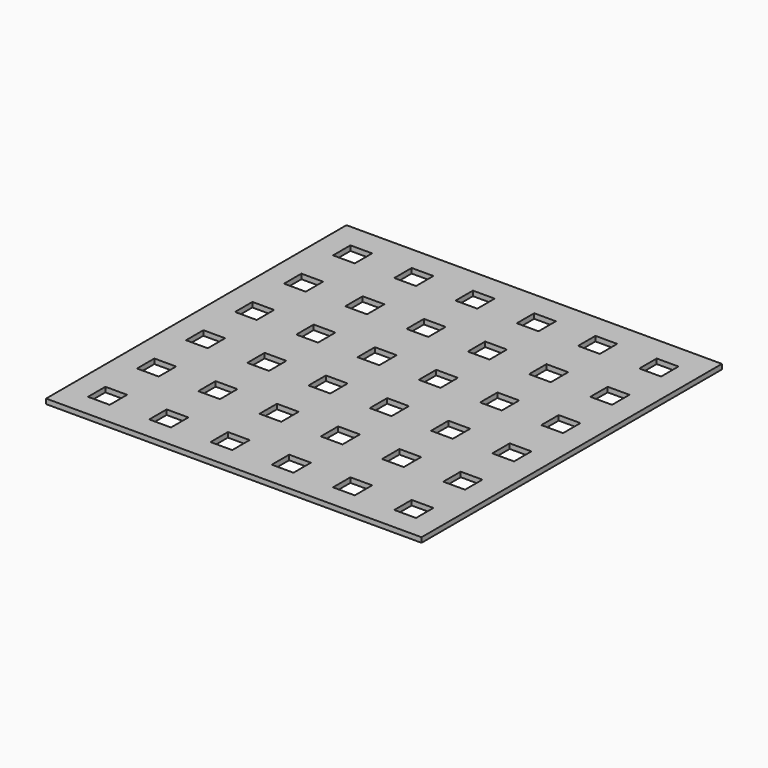
from build123d import *

# Parameters (mm, degrees)
F0_W     = 241.3
F0_H     = 241.3
F1_DEPTH = 1.5875
F2_W     = 13.97
F2_H     = 13.97
F3_DEPTH = 3.175


with BuildPart() as f1:
    # F0 (on Top) → F1 (new body, symmetric)
    with BuildSketch(Plane.XY):
        Rectangle(F0_W, F0_H)
    extrude(amount=F1_DEPTH, both=True)

    # F2 (on face) → F3 (cut, through all)
    with BuildSketch(Plane.XY.offset(1.5875)):
        with Locations((-98.425, 97.79)):
            Rectangle(F2_W, F2_H)
        with Locations((-98.425, 58.42)):
            Rectangle(F2_W, F2_H)
        with Locations((-98.425, 19.05)):
            Rectangle(F2_W, F2_H)
        with Locations((-98.425, -20.32)):
            Rectangle(F2_W, F2_H)
        with Locations((-98.425, -59.69)):
            Rectangle(F2_W, F2_H)
        with Locations((-98.425, -99.06)):
            Rectangle(F2_W, F2_H)
        with Locations((-59.055, 97.79)):
            Rectangle(F2_W, F2_H)
        with Locations((-59.055, 58.42)):
            Rectangle(F2_W, F2_H)
        with Locations((-59.055, 19.05)):
            Rectangle(F2_W, F2_H)
        with Locations((-59.055, -20.32)):
            Rectangle(F2_W, F2_H)
        with Locations((-59.055, -59.69)):
            Rectangle(F2_W, F2_H)
        with Locations((-59.055, -99.06)):
            Rectangle(F2_W, F2_H)
        with Locations((-19.685, 97.79)):
            Rectangle(F2_W, F2_H)
        with Locations((-19.685, 58.42)):
            Rectangle(F2_W, F2_H)
        with Locations((-19.685, 19.05)):
            Rectangle(F2_W, F2_H)
        with Locations((-19.685, -20.32)):
            Rectangle(F2_W, F2_H)
        with Locations((-19.685, -59.69)):
            Rectangle(F2_W, F2_H)
        with Locations((-19.685, -99.06)):
            Rectangle(F2_W, F2_H)
        with Locations((19.685, 97.79)):
            Rectangle(F2_W, F2_H)
        with Locations((19.685, 58.42)):
            Rectangle(F2_W, F2_H)
        with Locations((19.685, 19.05)):
            Rectangle(F2_W, F2_H)
        with Locations((19.685, -20.32)):
            Rectangle(F2_W, F2_H)
        with Locations((19.685, -59.69)):
            Rectangle(F2_W, F2_H)
        with Locations((19.685, -99.06)):
            Rectangle(F2_W, F2_H)
        with Locations((59.055, 97.79)):
            Rectangle(F2_W, F2_H)
        with Locations((59.055, 58.42)):
            Rectangle(F2_W, F2_H)
        with Locations((59.055, 19.05)):
            Rectangle(F2_W, F2_H)
        with Locations((59.055, -20.32)):
            Rectangle(F2_W, F2_H)
        with Locations((59.055, -59.69)):
            Rectangle(F2_W, F2_H)
        with Locations((59.055, -99.06)):
            Rectangle(F2_W, F2_H)
        with Locations((98.425, 97.79)):
            Rectangle(F2_W, F2_H)
        with Locations((98.425, 58.42)):
            Rectangle(F2_W, F2_H)
        with Locations((98.425, 19.05)):
            Rectangle(F2_W, F2_H)
        with Locations((98.425, -20.32)):
            Rectangle(F2_W, F2_H)
        with Locations((98.425, -59.69)):
            Rectangle(F2_W, F2_H)
        with Locations((98.425, -99.06)):
            Rectangle(F2_W, F2_H)
    extrude(amount=-F3_DEPTH, mode=Mode.SUBTRACT)


solid = f1.part
